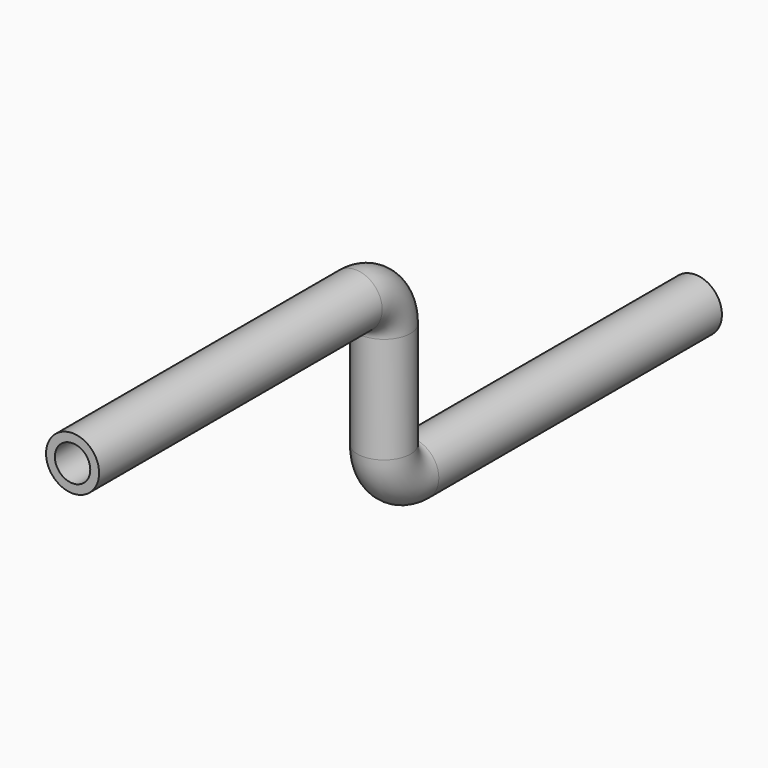
from build123d import *

# Parameters (mm, degrees)
F0_R   = 7.5
F0_R_2 = 5


with BuildPart() as f2:
    # F2: sweep along a path in F1
    with BuildLine(Plane.YZ) as f2_path:
        Line((0, 0), (100, 0))
        ThreePointArc((100, 0), (107.071068, -2.928932), (110, -10))
        Line((110, -10), (110, -40))
        ThreePointArc((110, -40), (112.928932, -47.071068), (120, -50))
        Line((120, -50), (220, -50))
    # F0 (on Front) → F2 (sweep)
    with BuildSketch(Plane.XZ):
        Circle(F0_R)
        Circle(F0_R_2, mode=Mode.SUBTRACT)
    sweep(path=f2_path.line)


solid = f2.part
